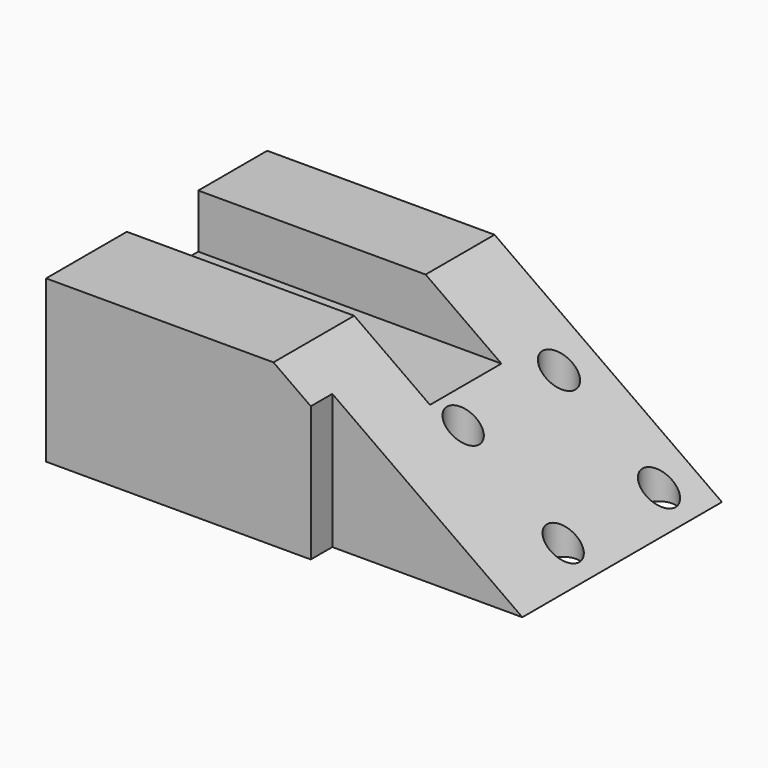
from build123d import *

# Parameters (mm, degrees)
F0_W      = 214.6737128496
F0_H      = 130.4792463779
F1_DEPTH  = 76.2
F3_DEPTH  = 2540
F4_W      = 107.3368564248
F4_H      = 42.1587638557
F5_DEPTH  = 25.4
F6_W      = 42.1587638557
F6_H      = 25.4
F7_DEPTH  = 25.4
F8_DEPTH  = 25.4
F10_DEPTH = 12.7
F11_R     = 7.7814226796
F11_R_2   = 7.6137292191
F12_DEPTH = 76.201


with BuildPart() as f1:
    # F0 (on Top) → F1 (new body)
    with BuildSketch(Plane.XY):
        Rectangle(F0_W, F0_H)
    extrude(amount=F1_DEPTH)

    # F2 (on face) → F3 (cut)
    with BuildSketch(Plane.XZ.offset(65.239623189)):
        Polygon((107.3368564248, 76.2), (0, 76.2), (107.3368564248, 0), align=None)
    extrude(amount=-F3_DEPTH, mode=Mode.SUBTRACT)

    # F4 (on face) → F5 (cut)
    with BuildSketch(Plane.XY.offset(76.2)):
        with Locations((-53.6684282124, 3.4826807678)):
            Rectangle(F4_W, F4_H)
    extrude(amount=-F5_DEPTH, mode=Mode.SUBTRACT)

    # F6 (on face) → F7 (cut)
    with BuildSketch(Plane(origin=(0, 0, 0), x_dir=(0, -1, 0), z_dir=(-1, 0, 0))):
        with Locations((-3.4826807678, 63.5)):
            Rectangle(F6_W, F6_H)
    extrude(amount=-F7_DEPTH, mode=Mode.SUBTRACT)

    # F8 (cut): a face of the model
    f8_faces = [f1.faces().sort_by_distance(p)[0] for p in [
        (25.4, 3.4826807678, 54.4840847568),
    ]]
    extrude(f8_faces, amount=-F8_DEPTH, mode=Mode.SUBTRACT)

    # F9 (on face) → F10 (cut)
    with BuildSketch(Plane.XZ.offset(65.239623189)):
        Polygon((107.3368564248, 0), (17.6323605159, 63.6825300827), (17.6323605159, 0), align=None)
    extrude(amount=-F10_DEPTH, mode=Mode.SUBTRACT)

    # F11 (on Top) → F12 (cut, through all)
    with BuildSketch(Plane.XY):
        with Locations((46.5043671429, 45.1353924804)):
            Circle(F11_R)
        with Locations((46.5043671429, -11.4098191261)):
            Circle(F11_R_2)
        with Locations((93.7171405072, -11.4098191261)):
            Circle(F11_R_2)
        with Locations((93.7171405072, 45.1353924804)):
            Circle(F11_R)
    extrude(amount=F12_DEPTH, mode=Mode.SUBTRACT)


solid = f1.part
